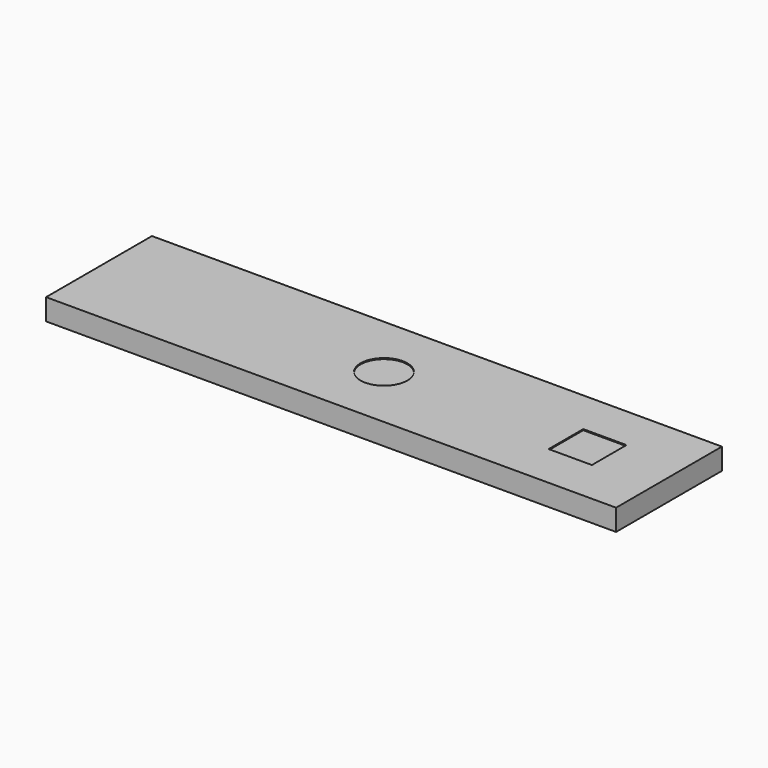
from build123d import *

# Parameters (mm, degrees)
F0_W     = 560
F0_H     = 130
F1_DEPTH = 21
F2_R     = 23
F2_W     = 42.5
F2_H     = 42.5
F3_DEPTH = 1


with BuildPart() as f1:
    # F0 (on Top) → F1 (new body)
    with BuildSketch(Plane.XY):
        with Locations((280, 65)):
            Rectangle(F0_W, F0_H)
    extrude(amount=F1_DEPTH)

    # F2 (on face) → F3 (cut)
    with BuildSketch(Plane.XY.offset(21)):
        with Locations((280, 65)):
            Circle(F2_R)
        with Locations((480, 65)):
            Rectangle(F2_W, F2_H)
    extrude(amount=-F3_DEPTH, mode=Mode.SUBTRACT)


solid = f1.part
